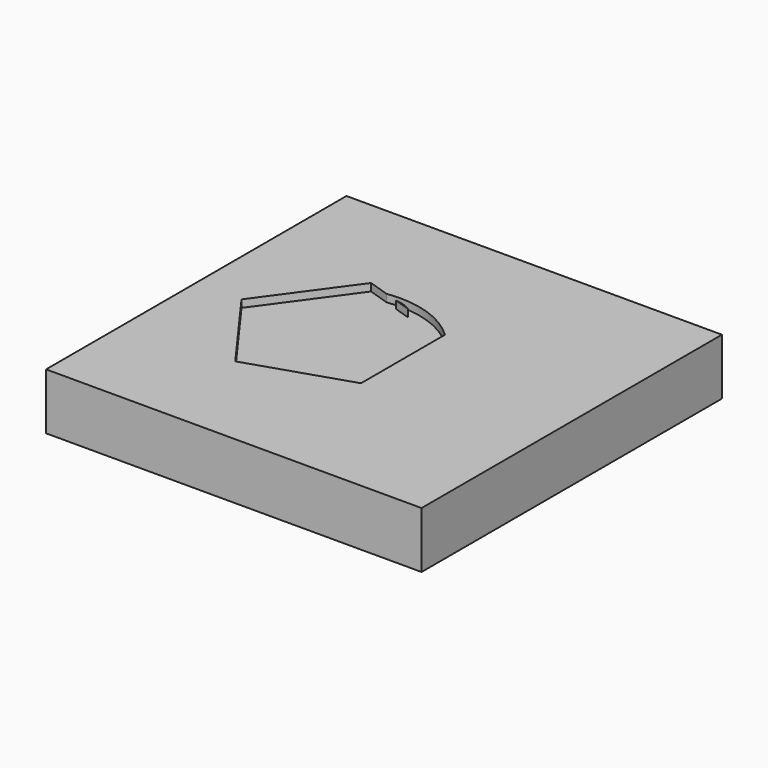
from build123d import *

# Parameters (mm, degrees)
F0_W     = 127
F0_H     = 127
F1_DEPTH = 19.05
F3_DEPTH = 2.54


with BuildPart() as f1:
    # F0 (on Top) → F1 (new body)
    with BuildSketch(Plane.XY):
        Rectangle(F0_W, F0_H)
    extrude(amount=F1_DEPTH)

    # F2 (on face) → F3 (cut)
    with BuildSketch(Plane.XY.offset(19.05)):
        Polygon((6.411221, -17.744777), (6.411221, 17.744777), (-10.465065, 23.228214), (-15.868622, 24.983937), (-20.305928, 26.425704), (-27.34135, 28.711652), (-48.201586, 0), (-27.34135, -28.711652), align=None)
        with BuildLine():
            Line((-10.465065, 23.228214), (6.411221, 17.744777))
            ThreePointArc((6.411221, 17.744777), (-5.946353, 25.166002), (-20.305928, 26.425704))
            Line((-20.305928, 26.425704), (-15.868622, 24.983937))
            ThreePointArc((-15.868622, 24.983937), (-13.055853, 24.44767), (-10.465065, 23.228214))
        make_face()
    extrude(amount=-F3_DEPTH, mode=Mode.SUBTRACT)


solid = f1.part
